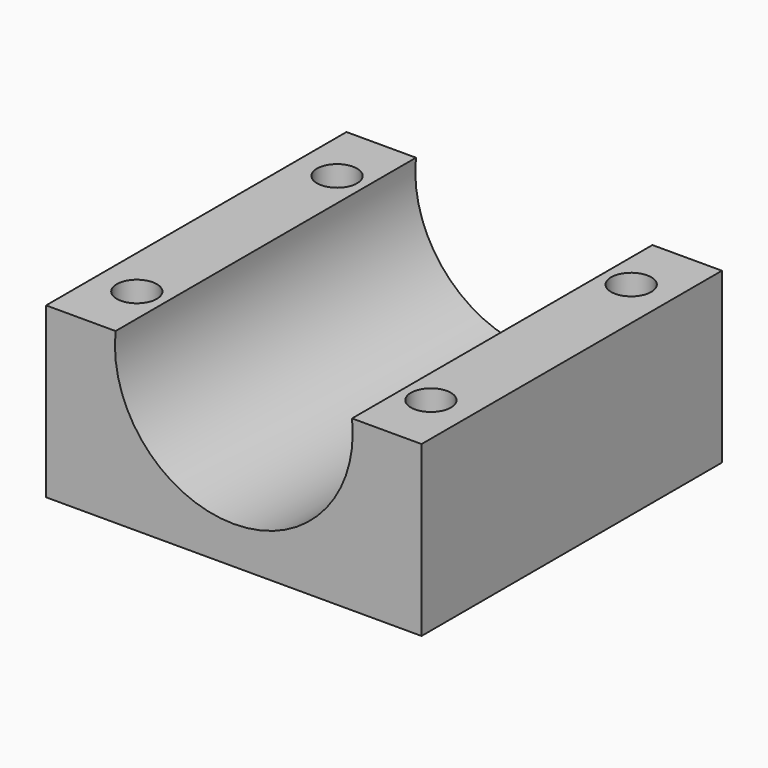
from build123d import *

# Parameters (mm, degrees)
F0_W     = 30
F0_H     = 30
F0_R     = 1.6
F1_DEPTH = 13.5
F2_R     = 9.5
F3_DEPTH = 30.001
F5_DEPTH = 4


with BuildPart() as f1:
    # F0 (on Top) → F1 (new body)
    with BuildSketch(Plane.XY):
        Rectangle(F0_W, F0_H)
        with Locations((-11.75, -10)):
            Circle(F0_R, mode=Mode.SUBTRACT)
        with Locations((11.75, -10)):
            Circle(F0_R, mode=Mode.SUBTRACT)
        with Locations((-11.75, 10)):
            Circle(F0_R, mode=Mode.SUBTRACT)
        with Locations((11.75, 10)):
            Circle(F0_R, mode=Mode.SUBTRACT)
    extrude(amount=F1_DEPTH)

    # F2 (on face) → F3 (cut, through all)
    with BuildSketch(Plane.XZ.offset(15)):
        with Locations((0, 12.5)):
            Circle(F2_R)
    extrude(amount=-F3_DEPTH, mode=Mode.SUBTRACT)

    # F4 (on face) → F5 (cut)
    with BuildSketch(Plane(origin=(0, 0, 0), x_dir=(1, 0, 0), z_dir=(0, 0, -1))):
        Polygon((-8.9, 8.354552), (-8.9, 11.645448), (-11.75, 13.290897), (-14.6, 11.645448), (-14.6, 8.354552), (-11.75, 6.709103), align=None)
        Polygon((14.6, 11.645448), (11.75, 13.290897), (8.9, 11.645448), (8.9, 8.354552), (11.75, 6.709103), (14.6, 8.354552), align=None)
        Polygon((14.6, -11.645448), (14.6, -8.354552), (11.75, -6.709103), (8.9, -8.354552), (8.9, -11.645448), (11.75, -13.290897), align=None)
        Polygon((-11.75, -13.290897), (-8.9, -11.645448), (-8.9, -8.354552), (-11.75, -6.709103), (-14.6, -8.354552), (-14.6, -11.645448), align=None)
    extrude(amount=-F5_DEPTH, mode=Mode.SUBTRACT)


solid = f1.part
